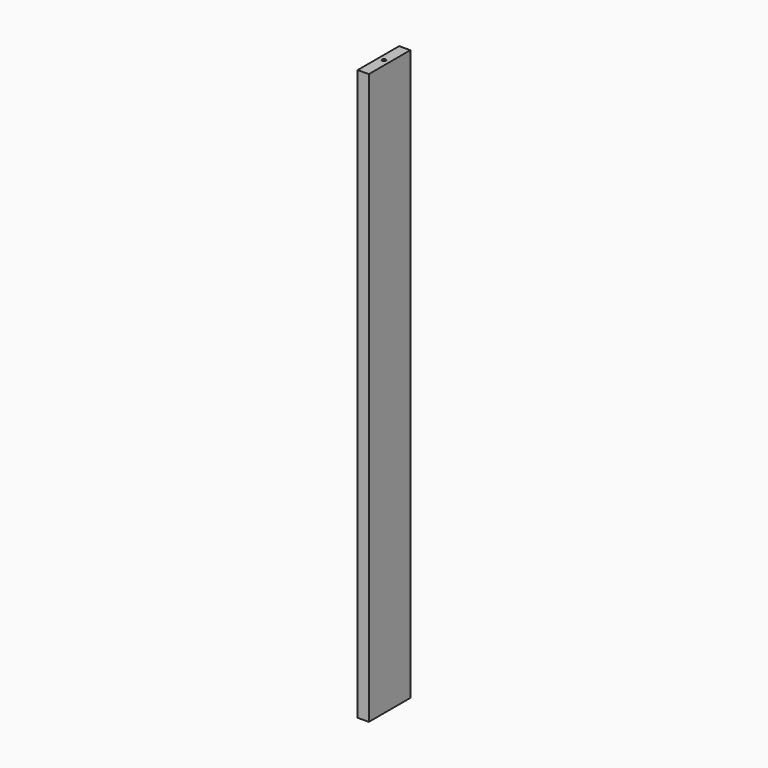
from build123d import *

# Parameters (mm, degrees)
F0_W     = 38.1
F0_H     = 177.8
F2_DEPTH = 1955.8
F1_R     = 6.35
F3_DEPTH = 25.4


with BuildPart() as f2:
    # F0 (on Top) → F2 (new body)
    with BuildSketch(Plane.XY):
        Rectangle(F0_W, F0_H)
    extrude(amount=-F2_DEPTH)

    # F1 (on Top) → F3 (cut)
    with BuildSketch(Plane.XY):
        Circle(F1_R)
    extrude(amount=-F3_DEPTH, mode=Mode.SUBTRACT)


solid = f2.part
